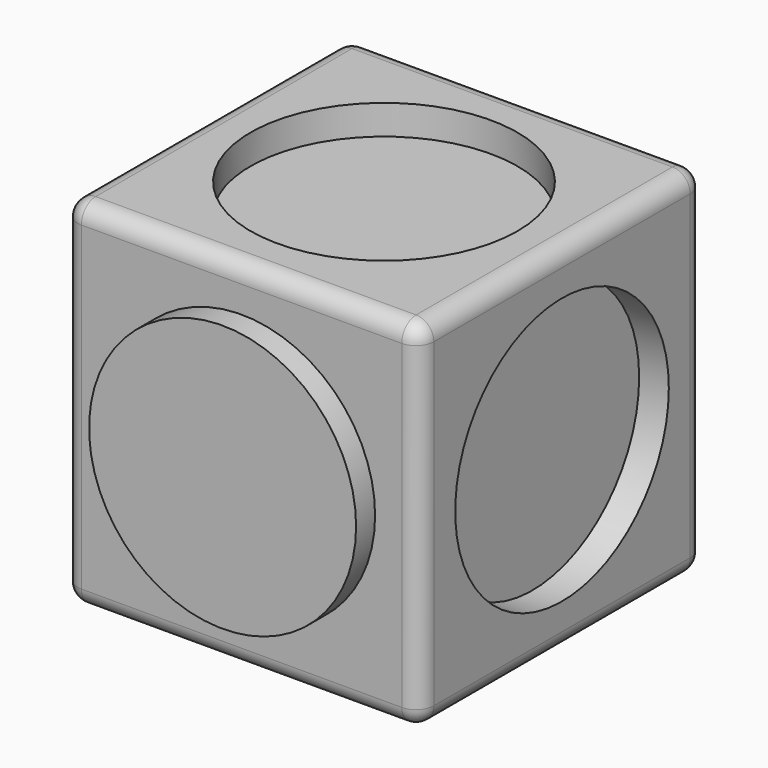
from build123d import *

# Parameters (mm, degrees)
F0_W      = 60
F0_H      = 60
F1_DEPTH  = 60
F2_R      = 3
F4_DEPTH  = 5
F5_R      = 22.5
F6_DEPTH  = 5
F7_R      = 22.5
F8_DEPTH  = 4
F9_R      = 22.5
F10_DEPTH = 5
F11_R     = 22.5
F12_DEPTH = 5
F13_R     = 22.5
F14_DEPTH = 5


with BuildPart() as f1:
    # F0 (on Top) → F1 (new body)
    with BuildSketch(Plane.XY):
        with Locations((30, 30)):
            Rectangle(F0_W, F0_H)
    extrude(amount=F1_DEPTH)

    # F2
    f2_edges = [f1.edges().sort_by_distance(p)[0] for p in [
        (0, 30, 60),
        (30, 0, 60),
        (60, 30, 60),
        (30, 60, 60),
        (0, 60, 30),
        (0, 0, 30),
        (0, 30, 0),
        (60, 60, 30),
        (30, 60, 0),
        (60, 0, 30),
        (60, 30, 0),
        (30, 0, 0),
    ]]
    fillet(f2_edges, radius=F2_R)

    # F3 (on face) → F4 (cut)
    with BuildSketch(Plane.XY.offset(60)):
        with BuildLine():
            ThreePointArc((52.5, 30), (38.6103772282, 50.7872894815), (14.0900974233, 45.9099025767))
            Line((14.0900974233, 45.9099025767), (45.9099025767, 14.0900974233))
            ThreePointArc((45.9099025767, 14.0900974233), (50.7872894815, 21.3896227718), (52.5, 30))
        make_face()
        with BuildLine():
            Line((45.9099025767, 14.0900974233), (14.0900974233, 45.9099025767))
            ThreePointArc((14.0900974233, 45.9099025767), (14.0900974233, 14.0900974233), (45.9099025767, 14.0900974233))
        make_face()
    extrude(amount=-F4_DEPTH, mode=Mode.SUBTRACT)

    # F5 (on face) → F6 (cut)
    with BuildSketch(Plane.YZ.offset(60)):
        with Locations((30, 30)):
            Circle(F5_R)
    extrude(amount=-F6_DEPTH, mode=Mode.SUBTRACT)

    # F7 (on face) → F8 (join)
    with BuildSketch(Plane.XZ):
        with Locations((30, 30)):
            Circle(F7_R)
    extrude(amount=F8_DEPTH)

    # F9 (on face) → F10 (cut)
    with BuildSketch(Plane(origin=(0, 60, 0), x_dir=(-1, 0, 0), z_dir=(0, 1, 0))):
        with Locations((-30, 30)):
            Circle(F9_R)
    extrude(amount=-F10_DEPTH, mode=Mode.SUBTRACT)

    # F11 (on face) → F12 (cut)
    with BuildSketch(Plane(origin=(0, 0, 0), x_dir=(0, -1, 0), z_dir=(-1, 0, 0))):
        with Locations((-30, 30)):
            Circle(F11_R)
    extrude(amount=-F12_DEPTH, mode=Mode.SUBTRACT)

    # F13 (on face) → F14 (cut)
    with BuildSketch(Plane(origin=(0, 0, 0), x_dir=(1, 0, 0), z_dir=(0, 0, -1))):
        with Locations((30, -30)):
            Circle(F13_R)
    extrude(amount=-F14_DEPTH, mode=Mode.SUBTRACT)


solid = f1.part
